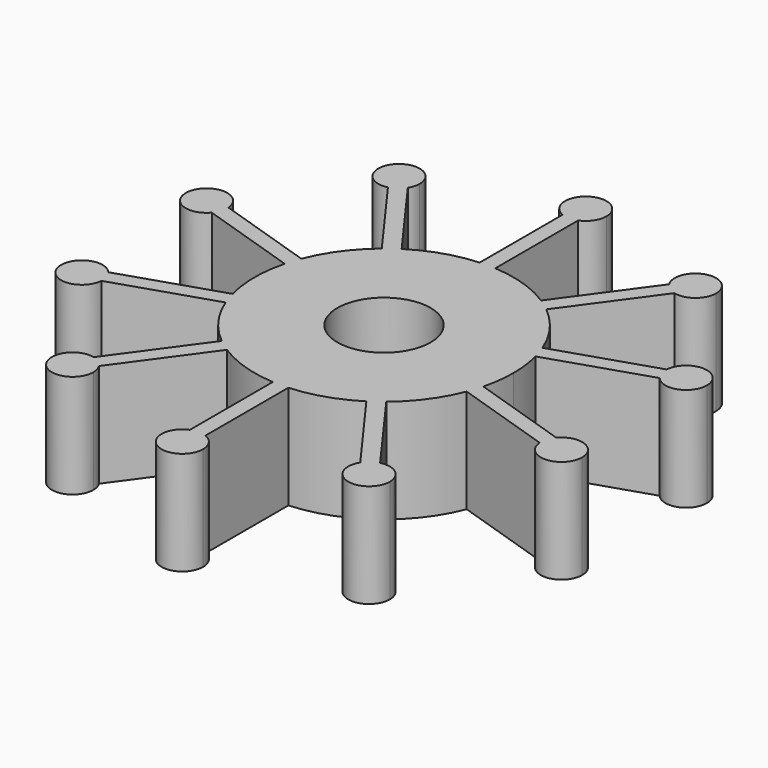
from build123d import *

# Parameters (mm, degrees)
F1_DEPTH = 20
F2_R     = 9
F3_DEPTH = 20.001


with BuildPart() as f1:
    # F0 (on Top) → F1 (new body)
    with BuildSketch(Plane.XY):
        with BuildLine():
            ThreePointArc((24.197102, -6.284922), (24.798463, -3.168), (25, 0))
            ThreePointArc((25, 0), (24.798463, 3.168), (24.197102, 6.284922))
            ThreePointArc((24.197102, 6.284922), (23.776413, 7.725425), (23.270051, 9.138091))
            ThreePointArc((23.270051, 9.138091), (20.225425, 14.694631), (15.881683, 19.307308))
            ThreePointArc((15.881683, 19.307308), (14.694631, 20.225425), (13.454632, 21.070664))
            ThreePointArc((13.454632, 21.070664), (7.725425, 23.776413), (1.5, 24.954959))
            ThreePointArc((1.5, 24.954959), (0, 25), (-1.5, 24.954959))
            ThreePointArc((-1.5, 24.954959), (-7.725425, 23.776413), (-13.454632, 21.070664))
            ThreePointArc((-13.454632, 21.070664), (-14.694631, 20.225425), (-15.881683, 19.307308))
            ThreePointArc((-15.881683, 19.307308), (-20.225425, 14.694631), (-23.270051, 9.138091))
            ThreePointArc((-23.270051, 9.138091), (-23.776413, 7.725425), (-24.197102, 6.284922))
            ThreePointArc((-24.197102, 6.284922), (-25, 0), (-24.197102, -6.284922))
            ThreePointArc((-24.197102, -6.284922), (-23.776413, -7.725425), (-23.270051, -9.138091))
            ThreePointArc((-23.270051, -9.138091), (-20.225425, -14.694631), (-15.881683, -19.307308))
            ThreePointArc((-15.881683, -19.307308), (-14.694631, -20.225425), (-13.454632, -21.070664))
            ThreePointArc((-13.454632, -21.070664), (-7.725425, -23.776413), (-1.5, -24.954959))
            ThreePointArc((-1.5, -24.954959), (0, -25), (1.5, -24.954959))
            ThreePointArc((1.5, -24.954959), (7.725425, -23.776413), (13.454632, -21.070664))
            ThreePointArc((13.454632, -21.070664), (14.694631, -20.225425), (15.881683, -19.307308))
            ThreePointArc((15.881683, -19.307308), (20.225425, -14.694631), (23.270051, -9.138091))
            ThreePointArc((23.270051, -9.138091), (23.776413, -7.725425), (24.197102, -6.284922))
        make_face()
        with BuildLine():
            ThreePointArc((23.270051, 9.138091), (23.776413, 7.725425), (24.197102, 6.284922))
            Line((24.197102, 6.284922), (43.218233, 12.465262))
            ThreePointArc((43.218233, 12.465262), (42.477093, 13.801644), (42.291182, 15.318431))
            Line((42.291182, 15.318431), (23.270051, 9.138091))
        make_face()
        with BuildLine():
            Line((43.218233, -12.465262), (24.197102, -6.284922))
            ThreePointArc((24.197102, -6.284922), (23.776413, -7.725425), (23.270051, -9.138091))
            Line((23.270051, -9.138091), (42.291182, -15.318431))
            ThreePointArc((42.291182, -15.318431), (42.477093, -13.801644), (43.218233, -12.465262))
        make_face()
        with BuildLine():
            ThreePointArc((42.291182, 15.318431), (42.477093, 13.801644), (43.218233, 12.465262))
            ThreePointArc((43.218233, 12.465262), (47.650197, 11.279232), (50.281319, 15.037712))
            ThreePointArc((50.281319, 15.037712), (46.421765, 19.035246), (42.291182, 15.318431))
        make_face()
        with BuildLine():
            ThreePointArc((50.281319, -15.037712), (47.650197, -11.279232), (43.218233, -12.465262))
            ThreePointArc((43.218233, -12.465262), (42.477093, -13.801644), (42.291182, -15.318431))
            ThreePointArc((42.291182, -15.318431), (46.421765, -19.035246), (50.281319, -15.037712))
        make_face()
        with BuildLine():
            ThreePointArc((13.454632, 21.070664), (14.694631, 20.225425), (15.881683, 19.307308))
            Line((15.881683, 19.307308), (27.637388, 35.487648))
            ThreePointArc((27.637388, 35.487648), (26.252287, 36.133173), (25.210337, 37.251004))
            Line((25.210337, 37.251004), (13.454632, 21.070664))
        make_face()
        with BuildLine():
            Line((27.637388, -35.487648), (15.881683, -19.307308))
            ThreePointArc((15.881683, -19.307308), (14.694631, -20.225425), (13.454632, -21.070664))
            Line((13.454632, -21.070664), (25.210337, -37.251004))
            ThreePointArc((25.210337, -37.251004), (26.252287, -36.133173), (27.637388, -35.487648))
        make_face()
        with BuildLine():
            ThreePointArc((25.210337, 37.251004), (26.252287, 36.133173), (27.637388, 35.487648))
            ThreePointArc((27.637388, 35.487648), (31.066743, 36.217721), (32.603428, 39.369241))
            ThreePointArc((32.603428, 39.369241), (27.501695, 43.214522), (25.210337, 37.251004))
        make_face()
        with BuildLine():
            ThreePointArc((32.603428, -39.369241), (31.066743, -36.217721), (27.637388, -35.487648))
            ThreePointArc((27.637388, -35.487648), (26.252287, -36.133173), (25.210337, -37.251004))
            ThreePointArc((25.210337, -37.251004), (27.501695, -43.214522), (32.603428, -39.369241))
        make_face()
        with BuildLine():
            ThreePointArc((-1.5, 24.954959), (0, 25), (1.5, 24.954959))
            Line((1.5, 24.954959), (1.5, 44.954959))
            ThreePointArc((1.5, 44.954959), (0, 44.663059), (-1.5, 44.954959))
            Line((-1.5, 44.954959), (-1.5, 24.954959))
        make_face()
        with BuildLine():
            Line((1.5, -44.954959), (1.5, -24.954959))
            ThreePointArc((1.5, -24.954959), (0, -25), (-1.5, -24.954959))
            Line((-1.5, -24.954959), (-1.5, -44.954959))
            ThreePointArc((-1.5, -44.954959), (0, -44.663059), (1.5, -44.954959))
        make_face()
        with BuildLine():
            ThreePointArc((-1.5, 44.954959), (0, 44.663059), (1.5, 44.954959))
            ThreePointArc((1.5, 44.954959), (3.316625, 46.426991), (4, 48.663059))
            ThreePointArc((4, 48.663059), (-2.236068, 51.979683), (-1.5, 44.954959))
        make_face()
        with BuildLine():
            ThreePointArc((4, -48.663059), (3.316625, -46.426991), (1.5, -44.954959))
            ThreePointArc((1.5, -44.954959), (0, -44.663059), (-1.5, -44.954959))
            ThreePointArc((-1.5, -44.954959), (-2.236068, -51.979683), (4, -48.663059))
        make_face()
        with BuildLine():
            ThreePointArc((-15.881683, 19.307308), (-14.694631, 20.225425), (-13.454632, 21.070664))
            Line((-13.454632, 21.070664), (-25.210337, 37.251004))
            ThreePointArc((-25.210337, 37.251004), (-26.252287, 36.133173), (-27.637388, 35.487648))
            Line((-27.637388, 35.487648), (-15.881683, 19.307308))
        make_face()
        with BuildLine():
            Line((-25.210337, -37.251004), (-13.454632, -21.070664))
            ThreePointArc((-13.454632, -21.070664), (-14.694631, -20.225425), (-15.881683, -19.307308))
            Line((-15.881683, -19.307308), (-27.637388, -35.487648))
            ThreePointArc((-27.637388, -35.487648), (-26.252287, -36.133173), (-25.210337, -37.251004))
        make_face()
        with BuildLine():
            ThreePointArc((-27.637388, 35.487648), (-26.252287, 36.133173), (-25.210337, 37.251004))
            ThreePointArc((-25.210337, 37.251004), (-24.758148, 38.267508), (-24.603428, 39.369241))
            ThreePointArc((-24.603428, 39.369241), (-31.754949, 41.832556), (-27.637388, 35.487648))
        make_face()
        with BuildLine():
            ThreePointArc((-24.603428, -39.369241), (-24.758148, -38.267508), (-25.210337, -37.251004))
            ThreePointArc((-25.210337, -37.251004), (-26.252287, -36.133173), (-27.637388, -35.487648))
            ThreePointArc((-27.637388, -35.487648), (-31.754949, -41.832556), (-24.603428, -39.369241))
        make_face()
        with BuildLine():
            ThreePointArc((-24.197102, 6.284922), (-23.776413, 7.725425), (-23.270051, 9.138091))
            Line((-23.270051, 9.138091), (-42.291182, 15.318431))
            ThreePointArc((-42.291182, 15.318431), (-42.283785, 15.178158), (-42.281319, 15.037712))
            ThreePointArc((-42.281319, 15.037712), (-42.522839, 13.668834), (-43.218233, 12.465262))
            Line((-43.218233, 12.465262), (-24.197102, 6.284922))
        make_face()
        with BuildLine():
            Line((-42.291182, -15.318431), (-23.270051, -9.138091))
            ThreePointArc((-23.270051, -9.138091), (-23.776413, -7.725425), (-24.197102, -6.284922))
            Line((-24.197102, -6.284922), (-43.218233, -12.465262))
            ThreePointArc((-43.218233, -12.465262), (-42.522839, -13.668834), (-42.281319, -15.037712))
            ThreePointArc((-42.281319, -15.037712), (-42.283785, -15.178158), (-42.291182, -15.318431))
        make_face()
        with BuildLine():
            ThreePointArc((-42.281319, 15.037712), (-42.283785, 15.178158), (-42.291182, 15.318431))
            ThreePointArc((-42.291182, 15.318431), (-50.085545, 16.27378), (-43.218233, 12.465262))
            ThreePointArc((-43.218233, 12.465262), (-42.522839, 13.668834), (-42.281319, 15.037712))
        make_face()
        with BuildLine():
            ThreePointArc((-43.218233, -12.465262), (-50.085545, -16.27378), (-42.291182, -15.318431))
            ThreePointArc((-42.291182, -15.318431), (-42.283785, -15.178158), (-42.281319, -15.037712))
            ThreePointArc((-42.281319, -15.037712), (-42.522839, -13.668834), (-43.218233, -12.465262))
        make_face()
    extrude(amount=F1_DEPTH)

    # F2 (on face) → F3 (cut, through all)
    with BuildSketch(Plane.XY.offset(20)):
        Circle(F2_R)
    extrude(amount=-F3_DEPTH, mode=Mode.SUBTRACT)


solid = f1.part
